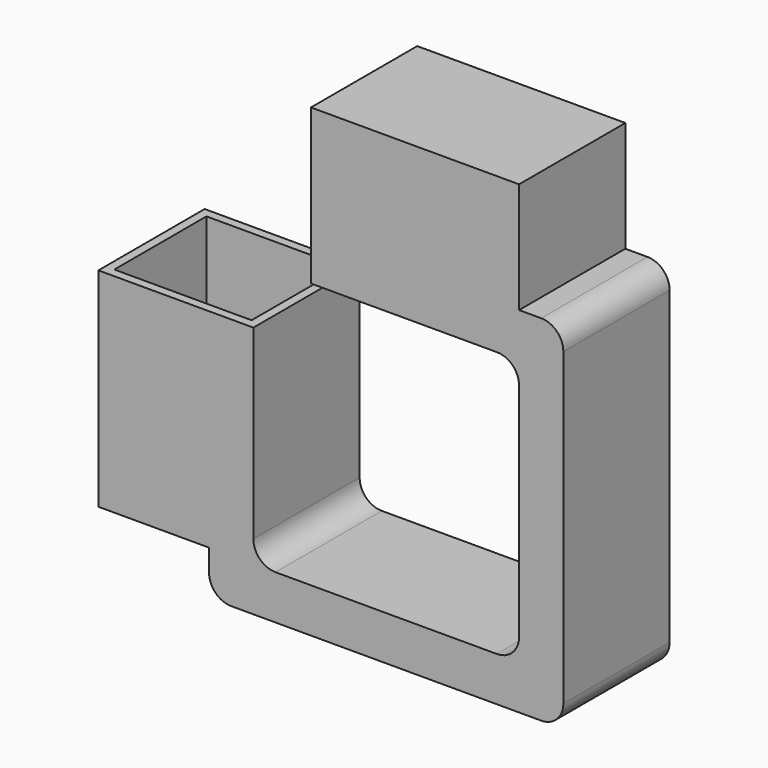
from build123d import *

# Parameters (mm, degrees)
F1_DEPTH = 30
F2_T     = -2
F4_W     = 31
F4_H     = 26
F5_DEPTH = 4


with BuildPart() as f1:
    # F0 (on Front) → F1 (new body)
    with BuildSketch(Plane.XZ):
        with BuildLine():
            ThreePointArc((5, 0), (1.4644660941, 1.4644660941), (0, 5))
            Line((0, 5), (0, 47))
            Line((0, 47), (-35, 47))
            Line((-35, 47), (-35, 0))
            Line((-35, 0), (-10, 0))
            Line((-10, 0), (-10, -5))
            ThreePointArc((-10, -5), (-8.5355339059, -8.5355339059), (-5, -10))
            Line((-5, -10), (65, -10))
            ThreePointArc((65, -10), (68.5355339059, -8.5355339059), (70, -5))
            Line((70, -5), (70, 65))
            ThreePointArc((70, 65), (68.5355339059, 68.5355339059), (65, 70))
            Line((65, 70), (60, 70))
            Line((60, 70), (60, 95))
            Line((60, 95), (13, 95))
            Line((13, 95), (13, 60))
            Line((13, 60), (55, 60))
            ThreePointArc((55, 60), (58.5355339059, 58.5355339059), (60, 55))
            Line((60, 55), (60, 5))
            ThreePointArc((60, 5), (58.5355339059, 1.4644660941), (55, 0))
            Line((55, 0), (5, 0))
        make_face()
    extrude(amount=F1_DEPTH)

    # F2
    f2_openings = [f1.faces().sort_by_distance(p)[0] for p in [
        (13, -15, 77.5),
    ]]
    offset(amount=F2_T, openings=f2_openings, kind=Kind.INTERSECTION)

    # F4 (on offset) → F5 (cut)
    with BuildSketch(Plane.XY.offset(47)):
        with Locations((-17.5, -15)):
            Rectangle(F4_W, F4_H)
    extrude(amount=-F5_DEPTH, mode=Mode.SUBTRACT)


solid = f1.part
